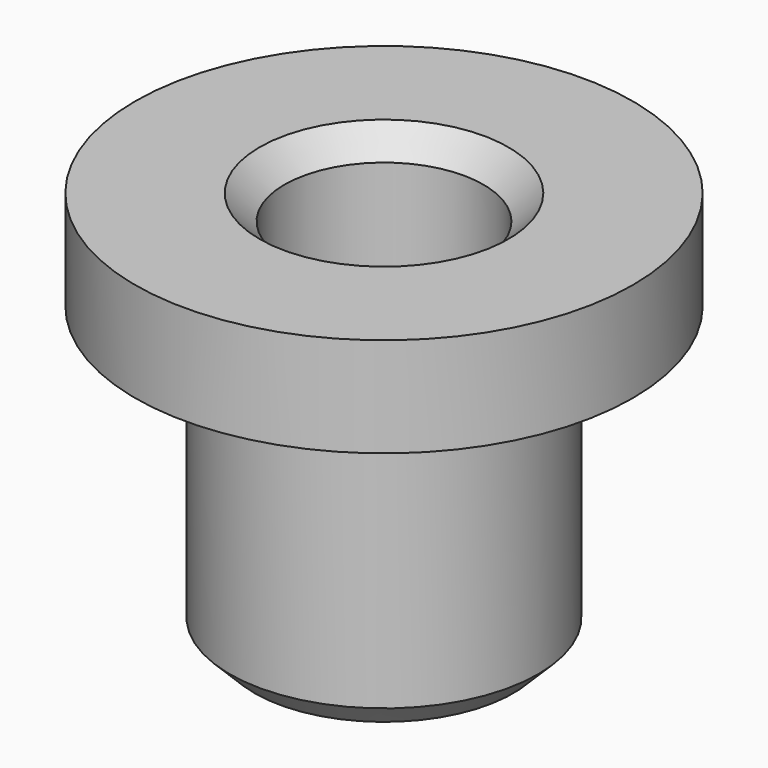
from build123d import *

# Parameters (mm, degrees)
F2_SIZE = 0.5


with BuildPart() as f1:
    # F0 (on Front) → F1 (revolve)
    with BuildSketch(Plane.XZ):
        Polygon((-3.1, 0), (-2, 0), (-2, 8), (-5, 8), (-5, 6), (-3.1, 6), align=None)
    revolve(axis=Axis((0, 0, 4.947596), (0, 0, 1)))

    # F2
    f2_edges = [f1.edges().sort_by_distance(p)[0] for p in [
        (2, 0, 8),
        (2, 0, 0),
        (3.1, 0, 0),
    ]]
    chamfer(f2_edges, length=F2_SIZE)


solid = f1.part
